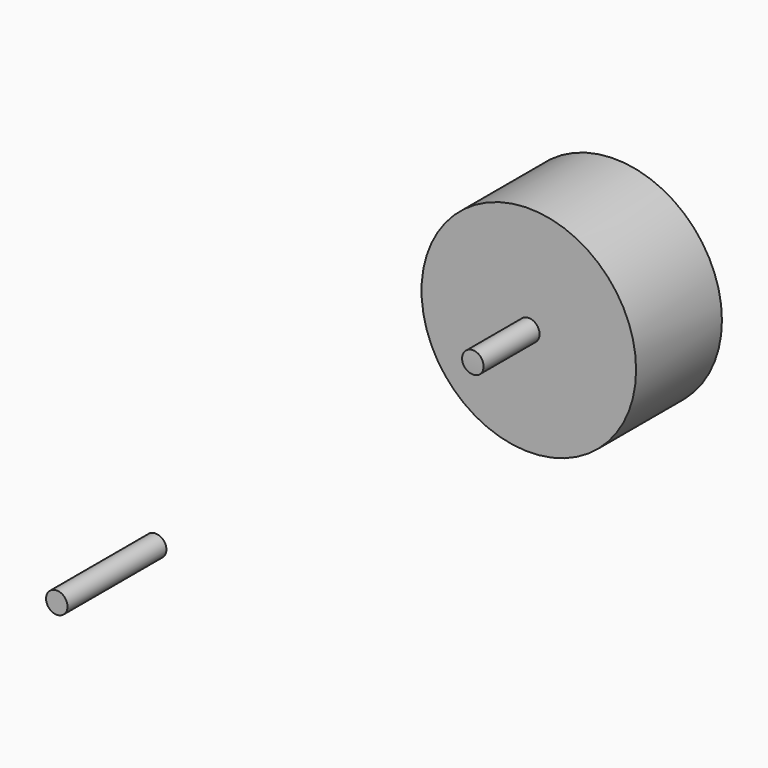
from build123d import *

# Parameters (mm, degrees)
CYLINDER004_R     = 37
CYLINDER004_DEPTH = 30
CYLINDER003_R     = 2
CYLINDER003_DEPTH = 120
CYLINDER005_R     = 20
CYLINDER005_DEPTH = 20


with BuildPart() as cylinder004:
    # Cylinder004 → Cylinder004 (new body)
    with BuildSketch(Plane.XY.offset(56)):
        Circle(CYLINDER004_R)
    extrude(amount=CYLINDER004_DEPTH)


with BuildPart() as cut001:
    # Cylinder003 → Cylinder003 (new body)
    with BuildSketch(Plane(origin=(0, 60, 60), x_dir=(1, 0, 0), z_dir=(0, -1, 0))):
        Circle(CYLINDER003_R)
    extrude(amount=CYLINDER003_DEPTH)

    # Cut001: cut Cylinder004
    add(cylinder004.part, mode=Mode.SUBTRACT)


with BuildPart() as eje:
    # Cylinder005 → Cylinder005 (new body)
    with BuildSketch(Plane(origin=(0, 70, 60), x_dir=(1, 0, 0), z_dir=(0, -1, 0))):
        Circle(CYLINDER005_R)
    extrude(amount=CYLINDER005_DEPTH)

    # Fusion: union Cut001
    add(cut001.part)


solid = eje.part
